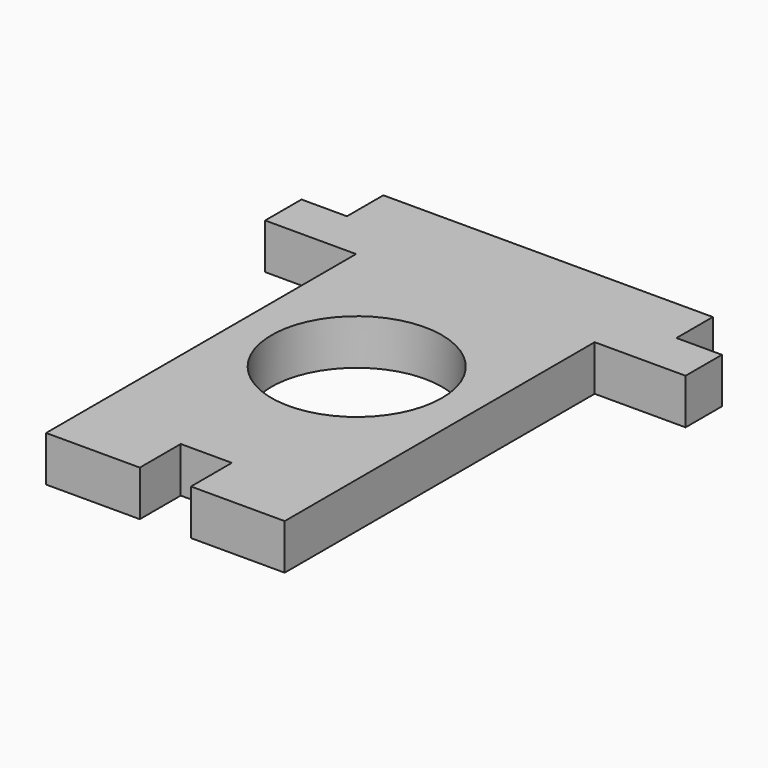
from build123d import *

# Parameters (mm, degrees)
F0_R     = 7.5
F2_DEPTH = 4
F1_W     = 37
F1_H     = 4
F3_DEPTH = 4
F5_START = -10.5
F5_DEPTH = 3
F6_W     = 29
F6_H     = 8
F7_DEPTH = 4


with BuildPart() as f2:
    # F0 (on Top) → F2 (new body)
    with BuildSketch(Plane.XY):
        Polygon((10.5, 21.05), (-10.5, 21.05), (-10.5, -21.05), (-2.25, -21.05), (-2.25, -16.55), (2.25, -16.55), (2.25, -21.05), (10.5, -21.05), align=None)
        Circle(F0_R, mode=Mode.SUBTRACT)
    extrude(amount=F2_DEPTH)

    # F1 (on Top) → F3 (join)
    with BuildSketch(Plane.XY):
        with Locations((0, 15.05)):
            Rectangle(F1_W, F1_H)
    extrude(amount=F3_DEPTH)

    # F4 (on Front) → F5 (join)
    with BuildSketch(Plane.XZ.offset(F5_START)):
        Polygon((4, -2.9999939919), (4, 0), (2, 0), (0, 0), (0, -2.9999939919), align=None)
    extrude(amount=-F5_DEPTH)

    # F6 (on Top) → F7 (join)
    with BuildSketch(Plane.XY):
        with Locations((0, 17.05)):
            Rectangle(F6_W, F6_H)
    extrude(amount=F7_DEPTH)


solid = f2.part
